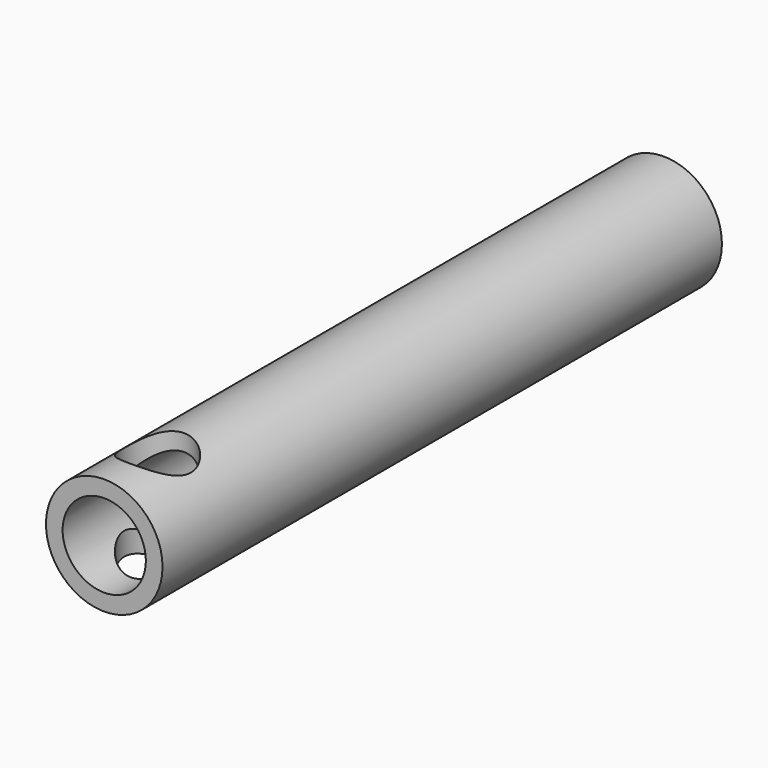
from build123d import *

# Parameters (mm, degrees)
F0_R     = 8.75
F0_R_2   = 6.25
F1_DEPTH = 105
F2_R     = 5
F3_DEPTH = 33.6


with BuildPart() as f1:
    # F0 (on Front) → F1 (new body)
    with BuildSketch(Plane.XZ):
        Circle(F0_R)
        Circle(F0_R_2, mode=Mode.SUBTRACT)
    extrude(amount=F1_DEPTH)

    # F2 (on Top) → F3 (cut, symmetric)
    with BuildSketch(Plane.XY):
        with Locations((0, -95)):
            Circle(F2_R)
    extrude(amount=F3_DEPTH, both=True, mode=Mode.SUBTRACT)


solid = f1.part
